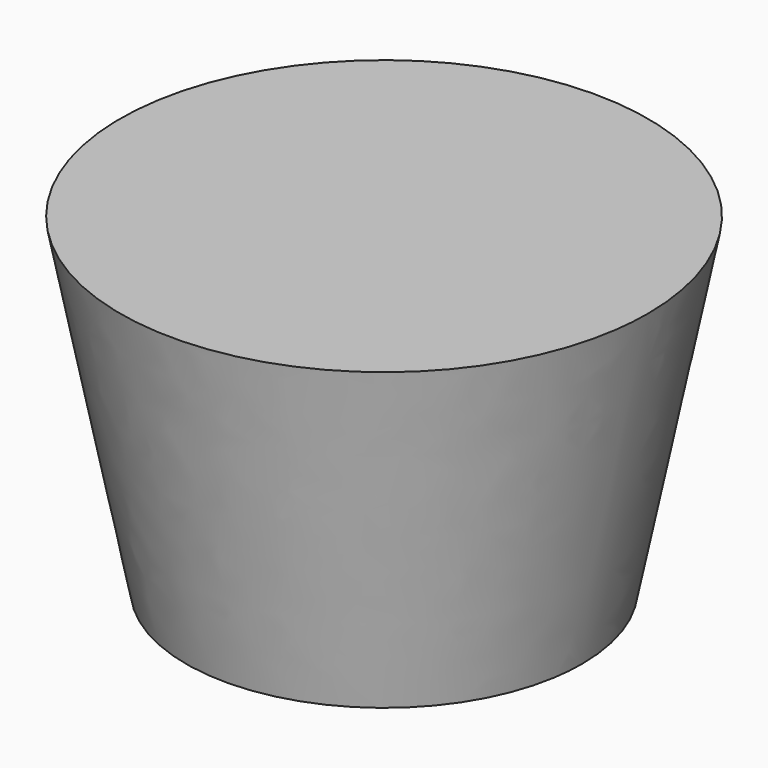
from build123d import *

# Parameters (mm, degrees)
F2_R = 40
F3_R = 35
F4_R = 30


with BuildPart() as f5:
    # F2 (on offset) → F5 section 0
    with BuildSketch(Plane.XY.offset(25)):
        Circle(F2_R)
    # F3 (on Top) → F5 section 1
    with BuildSketch(Plane.XY):
        Circle(F3_R)
    # F4 (on offset) → F5 section 2
    with BuildSketch(Plane.XY.offset(-25)):
        Circle(F4_R)
    loft()


solid = f5.part
